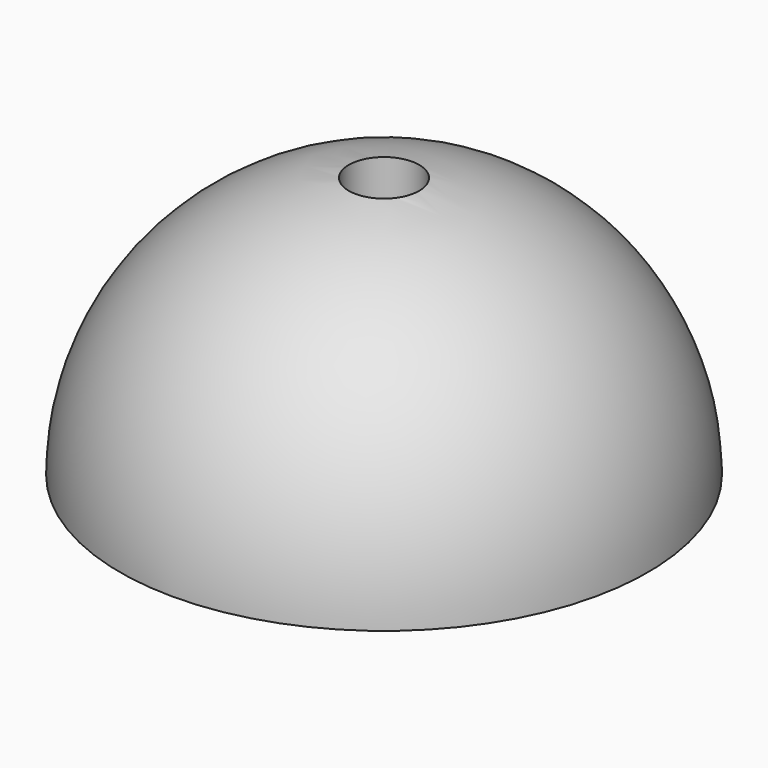
from build123d import *

# Parameters (mm, degrees)
F1_ANGLE = -180
F2_R     = 5.08
F3_DEPTH = 38.1


with BuildPart() as f1:
    # F0 (on Top) → F1 (revolve)
    with BuildSketch(Plane.XY):
        with BuildLine():
            Line((0, 76.2), (0, 0))
            ThreePointArc((0, 0), (38.1, 38.1), (0, 76.2))
        make_face()
    revolve(axis=Axis((0, 38.1, 0), (0, 1, 0)), revolution_arc=F1_ANGLE)

    # F2 (on face) → F3 (cut)
    with BuildSketch(Plane(origin=(0, 0, 0), x_dir=(1, 0, 0), z_dir=(0, 0, -1))):
        with Locations((0, -38.1)):
            Circle(F2_R)
    extrude(amount=-F3_DEPTH, mode=Mode.SUBTRACT)


solid = f1.part
